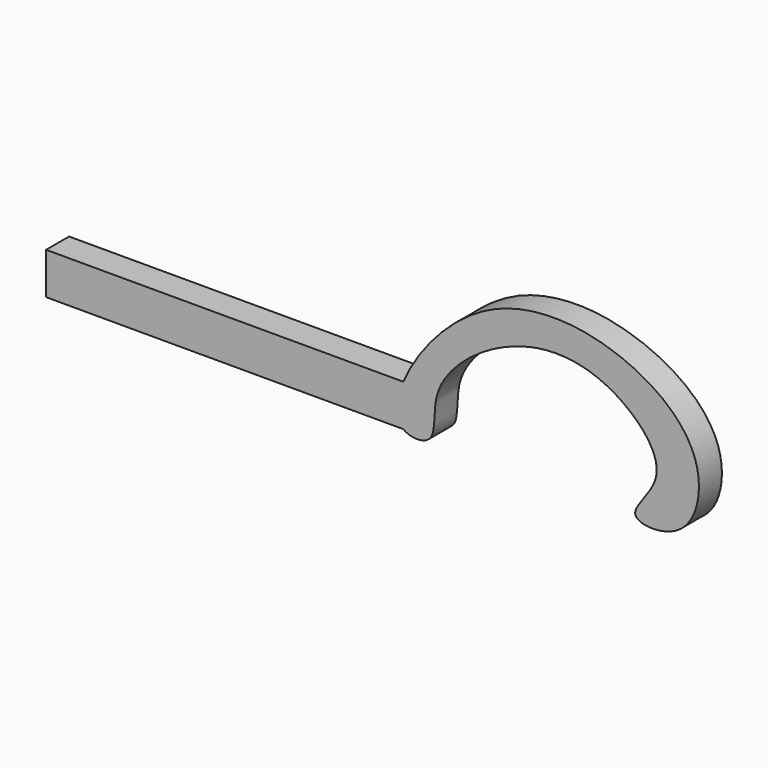
from build123d import *

# Parameters (mm, degrees)
F1_DEPTH = 2.032


with BuildPart() as f1:
    # F0 (on Front) → F1 (new body)
    with BuildSketch(Plane.XZ):
        with BuildLine():
            Line((-42.8625009954, 9.1255642474), (-68.1191161275, 9.1255642474))
            Line((-68.1191161275, 9.1255642474), (-68.1191161275, 6.1758873053))
            Line((-68.1191161275, 6.1758873053), (-42.8625009954, 6.1758873053))
            add(Edge.make_bspline(
                [(-42.8625009954, 6.1758873053), (-43.4875903557, 6.6832914789), (-43.4061693682, 7.8131180843), (-42.8625009954, 9.1255642474)],
                knots=[0.9361173363, 0.9361173363, 0.9361173363, 0.9361173363, 1, 1, 1, 1], degree=3))
        make_face()
        with BuildLine():
            add(Edge.make_bspline(
                [(-42.8625009954, 9.1255642474), (-41.919819465, 11.4012507129), (-37.233093338, 17.0771971601), (-27.6350971059, 16.6846134766), (-21.0831396014, 11.7654969709), (-22.4366138067, 5.3842753364), (-28.0365233676, 5.7237022822), (-23.2111774712, 9.3608367028), (-28.8855977898, 14.9197742966), (-35.9547590915, 14.3760528794), (-41.2927841645, 9.7064724994), (-40.2400635725, 5.7468808935), (-42.3686119796, 5.7749824686), (-42.8625009954, 6.1758873053)],
                knots=[0, 0, 0, 0, 0.1107679059, 0.2225742061, 0.3232211698, 0.4060568454, 0.4699383846, 0.5374879725, 0.6287198444, 0.7271886755, 0.8212046278, 0.8856430395, 0.9361173363, 0.9361173363, 0.9361173363, 0.9361173363], degree=3))
            Line((-42.8625009954, 9.1255642474), (-42.8625009954, 6.1758873053))
        make_face()
        with BuildLine():
            Line((-42.8625009954, 6.1758873053), (-42.8625009954, 9.1255642474))
            add(Edge.make_bspline(
                [(-42.8625009954, 6.1758873053), (-43.4875903557, 6.6832914789), (-43.4061693682, 7.8131180843), (-42.8625009954, 9.1255642474)],
                knots=[0.9361173363, 0.9361173363, 0.9361173363, 0.9361173363, 1, 1, 1, 1], degree=3))
        make_face()
    extrude(amount=F1_DEPTH)


solid = f1.part
